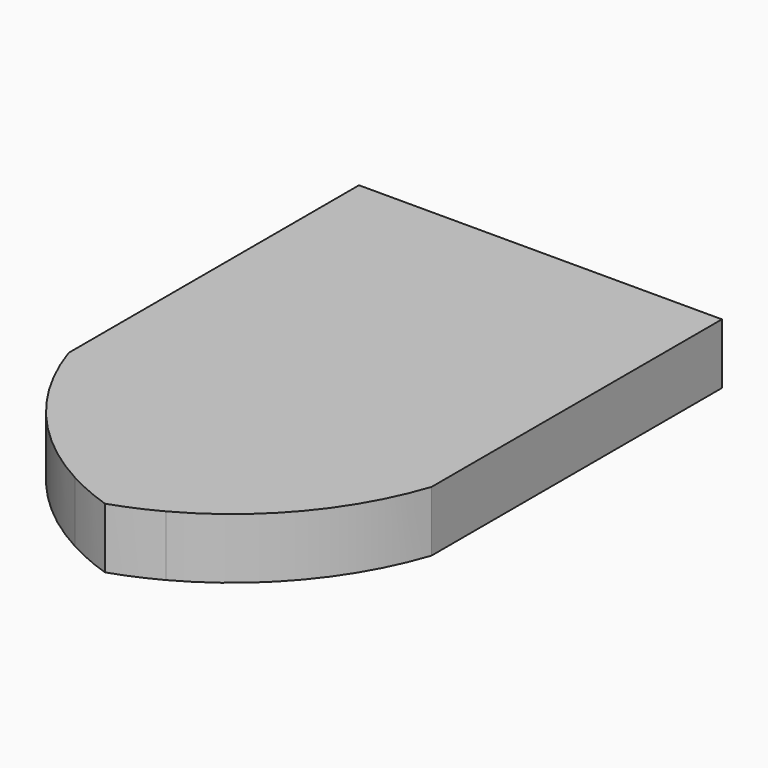
from build123d import *

# Parameters (mm, degrees)
F0_W     = 304.8
F0_H     = 457.2
F1_DEPTH = 50.8
F2_W     = 76.2
F2_H     = 75.8903771639
F2_H_2   = 75.2589152813
F3_DEPTH = 50.8
F4_DEPTH = 50.8
F5_DEPTH = 50.8
F6_DEPTH = 50.8


with BuildPart() as f1:
    # F0 (on Top) → F1 (new body)
    with BuildSketch(Plane.XY):
        Rectangle(F0_W, F0_H)
    extrude(amount=F1_DEPTH)

    # F2 (on face) → F3 (join)
    with BuildSketch(Plane.XY.offset(50.8)):
        Polygon((-38.1, 0), (0, 0), (38.1, 0), (38.1, 77.4507075548), (-38.1, 77.4507075548), align=None)
        with BuildLine():
            Line((38.1, 0), (0, 0))
            Line((0, 0), (-38.1, 0))
            Line((-38.1, 0), (-38.1, -212.1318222238))
            ThreePointArc((-38.1, -212.1318222238), (-19.4052442067, -221.1877873667), (0, -228.6))
            ThreePointArc((0, -228.6), (19.4052442067, -221.1877873667), (38.1, -212.1318222238))
            Line((38.1, -212.1318222238), (38.1, 0))
        make_face()
        with Locations((0, 115.3958961368)):
            Rectangle(F2_W, F2_H)
        with BuildLine():
            Line((38.1, -228.6), (38.1, -212.1318222238))
            ThreePointArc((38.1, -212.1318222238), (19.4052442067, -221.1877873667), (0, -228.6))
            Line((0, -228.6), (38.1, -228.6))
        make_face()
        with BuildLine():
            ThreePointArc((0, -228.6), (-19.4052442067, -221.1877873667), (-38.1, -212.1318222238))
            Line((-38.1, -212.1318222238), (-38.1, -228.6))
            Line((-38.1, -228.6), (0, -228.6))
        make_face()
        with Locations((0, 190.9705423594)):
            Rectangle(F2_W, F2_H_2)
        with BuildLine():
            Line((38.1, 0), (0, 0))
            Line((0, 0), (-38.1, 0))
            Line((-38.1, 0), (-38.1, -212.1318222238))
            ThreePointArc((-38.1, -212.1318222238), (-19.4052442067, -221.1877873667), (0, -228.6))
            ThreePointArc((0, -228.6), (19.4052442067, -221.1877873667), (38.1, -212.1318222238))
            Line((38.1, -212.1318222238), (38.1, 0))
        make_face()
        with BuildLine():
            Line((76.2, 0), (38.1, 0))
            Line((38.1, 0), (38.1, -212.1318222238))
            ThreePointArc((38.1, -212.1318222238), (108.2301156896, -155.0804063276), (152.4, -76.2))
            Line((152.4, -76.2), (152.4, 0))
            Line((152.4, 0), (76.2, 0))
        make_face()
    extrude(amount=-F3_DEPTH)

    # F2 (on face) → F4 (cut)
    with BuildSketch(Plane.XY.offset(50.8)):
        with BuildLine():
            ThreePointArc((0, -228.6), (-19.4052442067, -221.1877873667), (-38.1, -212.1318222238))
            Line((-38.1, -212.1318222238), (-38.1, -228.6))
            Line((-38.1, -228.6), (0, -228.6))
        make_face()
        with BuildLine():
            Line((-38.1, -228.6), (-38.1, -212.1318222238))
            ThreePointArc((-38.1, -212.1318222238), (-108.2301156896, -155.0804063276), (-152.4, -76.2))
            Line((-152.4, -76.2), (-152.4, -228.6))
            Line((-152.4, -228.6), (-38.1, -228.6))
        make_face()
    extrude(amount=-F4_DEPTH, mode=Mode.SUBTRACT)

    # F2 (on face) → F5 (cut)
    with BuildSketch(Plane.XY.offset(50.8)):
        with BuildLine():
            Line((38.1, -228.6), (38.1, -212.1318222238))
            ThreePointArc((38.1, -212.1318222238), (19.4052442067, -221.1877873667), (0, -228.6))
            Line((0, -228.6), (38.1, -228.6))
        make_face()
        with BuildLine():
            ThreePointArc((152.4, -76.2), (108.2301156896, -155.0804063276), (38.1, -212.1318222238))
            Line((38.1, -212.1318222238), (38.1, -228.6))
            Line((38.1, -228.6), (152.4, -228.6))
            Line((152.4, -228.6), (152.4, -76.2))
        make_face()
    extrude(amount=-F5_DEPTH, mode=Mode.SUBTRACT)

    # F2 (on face) → F6 (cut)
    with BuildSketch(Plane.XY.offset(50.8)):
        with BuildLine():
            Line((-38.1, -228.6), (-38.1, -212.1318222238))
            ThreePointArc((-38.1, -212.1318222238), (-108.2301156896, -155.0804063276), (-152.4, -76.2))
            Line((-152.4, -76.2), (-152.4, -228.6))
            Line((-152.4, -228.6), (-38.1, -228.6))
        make_face()
        with BuildLine():
            ThreePointArc((152.4, -76.2), (108.2301156896, -155.0804063276), (38.1, -212.1318222238))
            Line((38.1, -212.1318222238), (38.1, -228.6))
            Line((38.1, -228.6), (152.4, -228.6))
            Line((152.4, -228.6), (152.4, -76.2))
        make_face()
    extrude(amount=-F6_DEPTH, mode=Mode.SUBTRACT)


solid = f1.part
